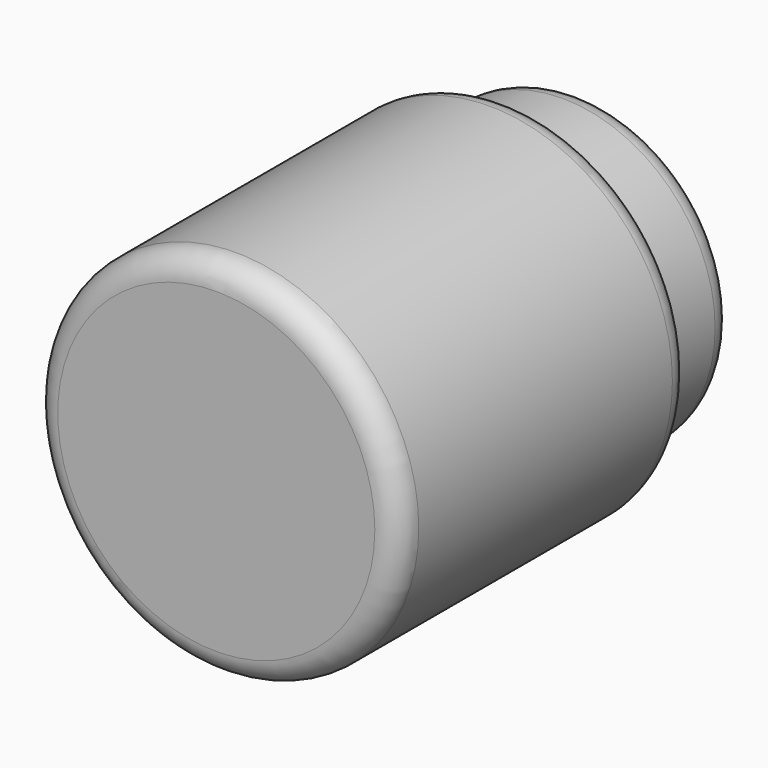
from build123d import *

# Parameters (mm, degrees)
F0_R     = 38.1
F1_DEPTH = 76.2
F2_R     = 31.75
F3_DEPTH = 19.05
F4_R     = 5.08
F6_D     = 7.62
F6_DEPTH = 21.59
F6_TIP   = 2.2892789585
F7_D     = 60.96
F7_DEPTH = 55.88
F7_TIP   = 18.314231668


with BuildPart() as f1:
    # F0 (on Front) → F1 (new body)
    with BuildSketch(Plane.XZ):
        Circle(F0_R)
    extrude(amount=F1_DEPTH)

    # F2 (on Front) → F3 (join)
    with BuildSketch(Plane.XZ):
        Circle(F2_R)
    extrude(amount=-F3_DEPTH)

    # F4
    f4_edges = [f1.edges().sort_by_distance(p)[0] for p in [
        (-31.75, 19.05, 0),
        (38.1, -38.1, 0),
        (-38.1, 0, 0),
        (-38.1, -76.2, 0),
    ]]
    fillet(f4_edges, radius=F4_R)

    # F6 (one way)
    with BuildSketch(Plane.XZ):
        with Locations((0, 0)):
            Circle(F6_D / 2)
    extrude(amount=-F6_DEPTH, mode=Mode.SUBTRACT)
    with Locations(Plane.XZ):
        with Locations((0, 0)):
            with Locations((0, 0, -(F6_DEPTH + F6_TIP / 2))):  # 118° drill point
                Cone(0, F6_D / 2, F6_TIP, mode=Mode.SUBTRACT)

    # F7 (one way)
    with BuildSketch(Plane(origin=(0, 0, 0), x_dir=(1, 0, 0), z_dir=(0, 1, 0))):
        with Locations((0, 0)):
            Circle(F7_D / 2)
    extrude(amount=-F7_DEPTH, mode=Mode.SUBTRACT)
    with Locations(Plane(origin=(0, 0, 0), x_dir=(1, 0, 0), z_dir=(0, 1, 0))):
        with Locations((0, 0)):
            with Locations((0, 0, -(F7_DEPTH + F7_TIP / 2))):  # 118° drill point
                Cone(0, F7_D / 2, F7_TIP, mode=Mode.SUBTRACT)


solid = f1.part
